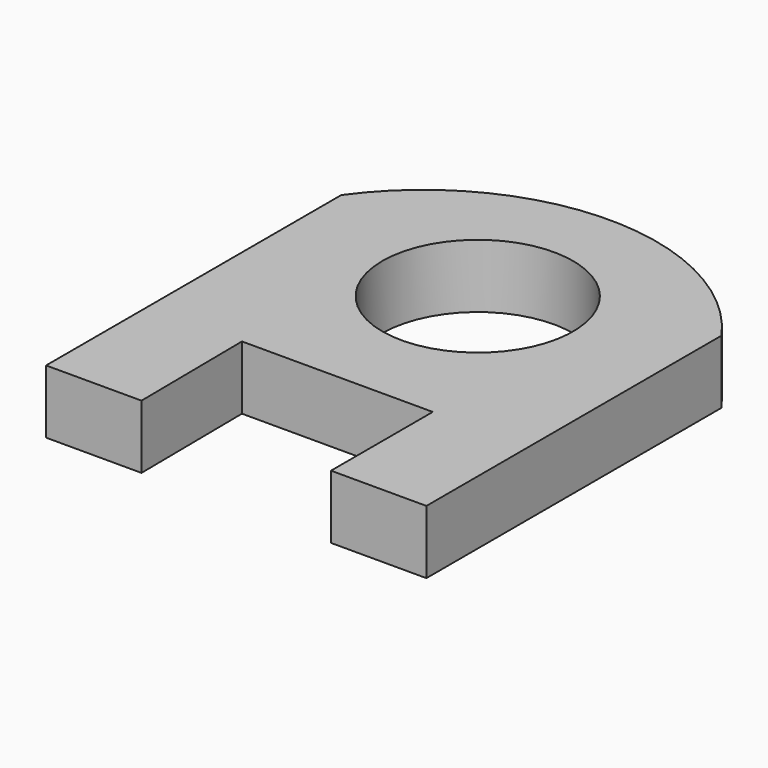
from build123d import *

# Parameters (mm, degrees)
F1_DEPTH = 25.4
F3_D     = 76.2


with BuildPart() as f1:
    # F0 (on Top) → F1 (new body)
    with BuildSketch(Plane.XY):
        with BuildLine():
            Line((-37.8053453803, -50.8), (-38.3331997294, 0))
            Line((-38.3331997294, 0), (37.8668002706, 0))
            Line((37.8668002706, 0), (37.8668002706, -50.8))
            Line((37.8668002706, -50.8), (75.9668002706, -50.8))
            Line((75.9668002706, -50.8), (75.9668002706, 0))
            Line((75.9668002706, 0), (75.9668002706, 96.52))
            ThreePointArc((75.9668002706, 96.52), (0.0307274451, 135.6912791975), (-75.9053453803, 96.52))
            Line((-75.9053453803, 96.52), (-75.9053453803, 0))
            Line((-75.9053453803, 0), (-75.9053453803, -50.8))
            Line((-75.9053453803, -50.8), (-37.8053453803, -50.8))
        make_face()
    extrude(amount=F1_DEPTH)

    # F3 (through all)
    with Locations(Plane(origin=(0, 0, 0), x_dir=(1, 0, 0), z_dir=(0, 0, -1))):
        with Locations((0, -69.78520751)):
            Hole(F3_D / 2)


solid = f1.part
